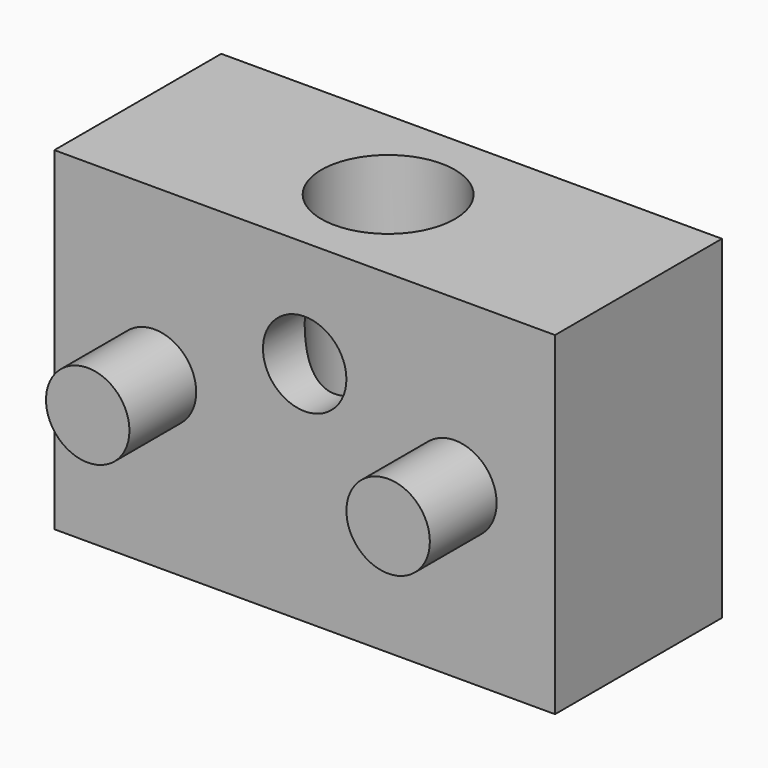
from build123d import *

# Parameters (mm, degrees)
F0_W     = 60
F0_H     = 40
F1_DEPTH = 12.5
F2_R     = 8
F3_DEPTH = 40.001
F4_R     = 5
F5_DEPTH = 10
F6_R     = 5
F7_DEPTH = 25


with BuildPart() as f1:
    # F0 (on Front) → F1 (new body, symmetric)
    with BuildSketch(Plane.XZ):
        Rectangle(F0_W, F0_H)
    extrude(amount=F1_DEPTH, both=True)

    # F2 (on face) → F3 (cut, through all)
    with BuildSketch(Plane.XY.offset(20)):
        Circle(F2_R)
        Circle(F2_R)
    extrude(amount=-F3_DEPTH, mode=Mode.SUBTRACT)

    # F4 (on face) → F5 (join)
    with BuildSketch(Plane.XZ.offset(12.5)):
        with Locations((-18, 0)):
            Circle(F4_R)
        with Locations((18, 0)):
            Circle(F4_R)
    extrude(amount=F5_DEPTH)

    # F6 (on face) → F7 (cut)
    with BuildSketch(Plane.XZ.offset(12.5)):
        with Locations((0, 7.201633)):
            Circle(F6_R)
    extrude(amount=-F7_DEPTH, mode=Mode.SUBTRACT)


solid = f1.part
